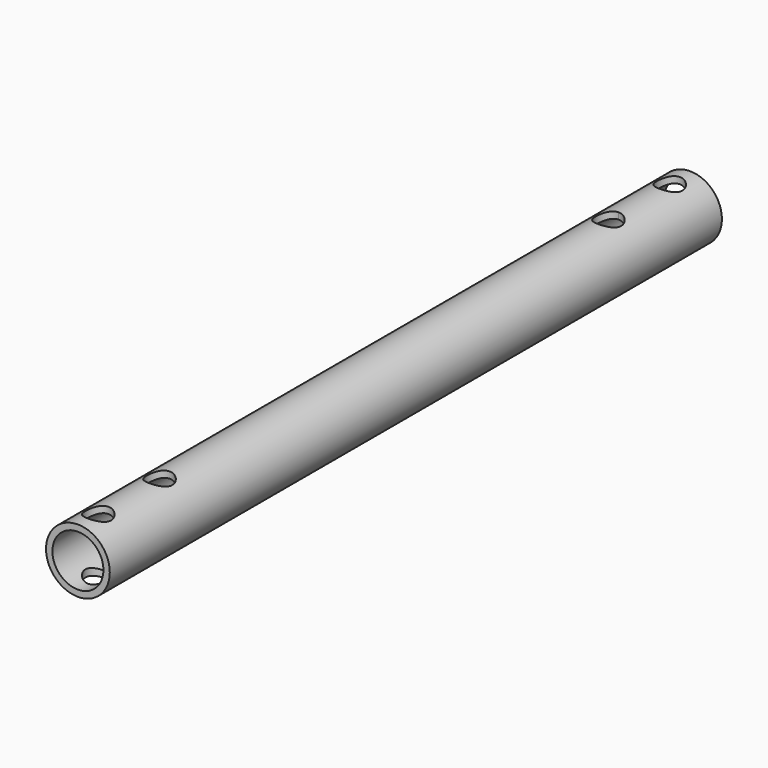
from build123d import *

# Parameters (mm, degrees)
F0_R     = 12.5
F0_R_2   = 10
F1_DEPTH = 300
F2_R     = 5
F3_DEPTH = 49


with BuildPart() as f1:
    # F0 (on Front) → F1 (new body)
    with BuildSketch(Plane.XZ):
        Circle(F0_R)
        Circle(F0_R_2, mode=Mode.SUBTRACT)
    extrude(amount=F1_DEPTH)

    # F2 (on Top) → F3 (cut, symmetric)
    with BuildSketch(Plane.XY):
        with Locations((0, -290)):
            Circle(F2_R)
        with BuildLine():
            ThreePointArc((0, -15), (3.535534, -13.535534), (5, -10))
            ThreePointArc((5, -10), (-3.535534, -6.464466), (0, -15))
        make_face()
        with BuildLine():
            ThreePointArc((5, -40), (3.535534, -36.464466), (0, -35))
            ThreePointArc((0, -35), (-3.535534, -43.535534), (5, -40))
        make_face()
        with Locations((0, -260)):
            Circle(F2_R)
    extrude(amount=F3_DEPTH, both=True, mode=Mode.SUBTRACT)


solid = f1.part
